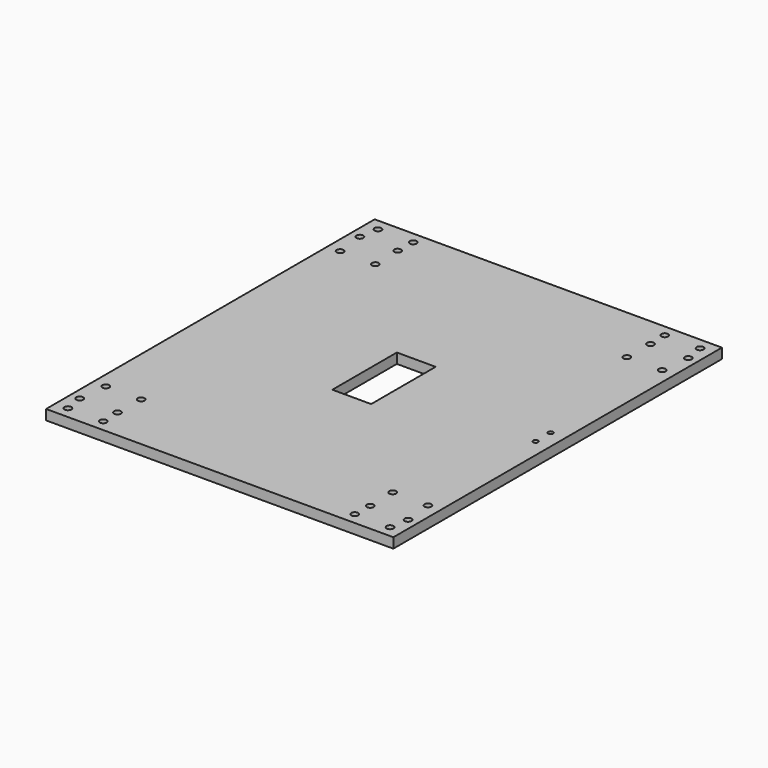
from build123d import *

# Parameters (mm, degrees)
F0_W     = 175.01715
F0_H     = 206.984854
F0_R     = 1.7272
F0_W_2   = 19.558
F0_H_2   = 40.64
F0_R_2   = 1.25
F1_DEPTH = 5.08


with BuildPart() as f1:
    # F0 (on Top) → F1 (new body)
    with BuildSketch(Plane.XY):
        Rectangle(F0_W, F0_H)
        with Locations((-81.158575, -97.650427)):
            Circle(F0_R, mode=Mode.SUBTRACT)
        with Locations((-82.746075, -88.25865)):
            Circle(F0_R, mode=Mode.SUBTRACT)
        with Locations((-63.378575, -97.650427)):
            Circle(F0_R, mode=Mode.SUBTRACT)
        with Locations((-63.696075, -88.25865)):
            Circle(F0_R, mode=Mode.SUBTRACT)
        with Locations((-81.158575, -73.774427)):
            Circle(F0_R, mode=Mode.SUBTRACT)
        with Locations((-63.378575, -73.774427)):
            Circle(F0_R, mode=Mode.SUBTRACT)
        with Locations((63.378575, -97.650427)):
            Circle(F0_R, mode=Mode.SUBTRACT)
        with Locations((63.696075, -88.25865)):
            Circle(F0_R, mode=Mode.SUBTRACT)
        with Locations((81.158575, -97.650427)):
            Circle(F0_R, mode=Mode.SUBTRACT)
        with Locations((82.746075, -88.25865)):
            Circle(F0_R, mode=Mode.SUBTRACT)
        with Locations((63.378575, -73.774427)):
            Circle(F0_R, mode=Mode.SUBTRACT)
        with Locations((81.158575, -73.774427)):
            Circle(F0_R, mode=Mode.SUBTRACT)
        Rectangle(F0_W_2, F0_H_2, mode=Mode.SUBTRACT)
        with Locations((80.208564, -4.750003)):
            Circle(F0_R_2, mode=Mode.SUBTRACT)
        with Locations((-81.158575, 73.774427)):
            Circle(F0_R, mode=Mode.SUBTRACT)
        with Locations((-63.378575, 73.774427)):
            Circle(F0_R, mode=Mode.SUBTRACT)
        with Locations((-82.746075, 88.25865)):
            Circle(F0_R, mode=Mode.SUBTRACT)
        with Locations((-81.158575, 97.650427)):
            Circle(F0_R, mode=Mode.SUBTRACT)
        with Locations((-63.696075, 88.25865)):
            Circle(F0_R, mode=Mode.SUBTRACT)
        with Locations((-63.378575, 97.650427)):
            Circle(F0_R, mode=Mode.SUBTRACT)
        with Locations((80.208564, 4.750003)):
            Circle(F0_R_2, mode=Mode.SUBTRACT)
        with Locations((63.378575, 73.774427)):
            Circle(F0_R, mode=Mode.SUBTRACT)
        with Locations((81.158575, 73.774427)):
            Circle(F0_R, mode=Mode.SUBTRACT)
        with Locations((63.696075, 88.25865)):
            Circle(F0_R, mode=Mode.SUBTRACT)
        with Locations((63.378575, 97.650427)):
            Circle(F0_R, mode=Mode.SUBTRACT)
        with Locations((82.746075, 88.25865)):
            Circle(F0_R, mode=Mode.SUBTRACT)
        with Locations((81.158575, 97.650427)):
            Circle(F0_R, mode=Mode.SUBTRACT)
    extrude(amount=F1_DEPTH)


solid = f1.part
